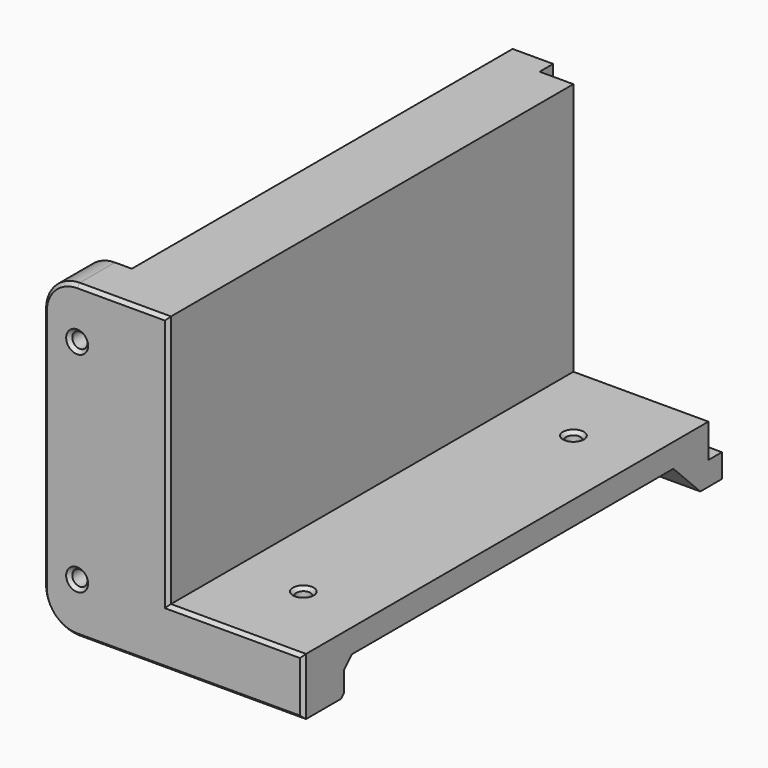
from build123d import *

# Parameters (mm, degrees)
PAD_DEPTH       = 155
SKETCH001_W     = 15
SKETCH001_H     = 92
SKETCH001_R     = 2.25
PAD001_DEPTH    = 15
POCKET_DEPTH    = 132
FILLET_R        = 10
CHAMFER_SIZE    = 9.99999
FILLET001_R     = 19.9
SKETCH004_W     = 50
SKETCH004_H     = 85
POCKET001_DEPTH = 5
CHAMFER001_SIZE = 3
SKETCH005_R     = 2.1
POCKET002_DEPTH = 92.001
CHAMFER002_SIZE = 1
CHAMFER003_SIZE = 1
CHAMFER004_SIZE = 1


with BuildPart() as part:
    # Sketch → Pad (new body)
    with BuildSketch(Plane.XZ):
        Polygon((40, 0), (40, 17), (0, 17), (0, 92), (-22, 92), (-22, 0), align=None)
    extrude(amount=-PAD_DEPTH)

    # Sketch001 → Pad001 (join)
    with BuildSketch(Plane.XZ):
        with Locations((-29.5, 46)):
            Rectangle(SKETCH001_W, SKETCH001_H)
        with Locations((-27, 77)):
            Circle(SKETCH001_R, mode=Mode.SUBTRACT)
        with Locations((-27, 15)):
            Circle(SKETCH001_R, mode=Mode.SUBTRACT)
    extrude(amount=-PAD001_DEPTH)

    # Sketch002 (on Face5 of Pad001) → Pocket (cut)
    with BuildSketch(Plane(origin=(0, 147, 0), x_dir=(-1, 0, 0), z_dir=(0, 1, 0))):
        Polygon((-40, 0), (-40, 10), (12, 10), (12, 84), (22, 84), (22, 0), align=None)
    extrude(amount=-POCKET_DEPTH, mode=Mode.SUBTRACT)

    # Fillet
    fillet_edges = [part.edges().sort_by_distance(p)[0] for p in [
        (-37, 7.5, 0),
        (-37, 7.5, 92),
        (-12, 81, 10),
    ]]
    fillet(fillet_edges, radius=FILLET_R)

    # Chamfer
    chamfer_edges = [part.edges().sort_by_distance(p)[0] for p in [
        (-12, 81, 84),
        (-12, 147, 52),
    ]]
    chamfer(chamfer_edges, length=CHAMFER_SIZE)

    # Fillet001
    fillet001_edges = [part.edges().sort_by_distance(p)[0] for p in [
        (-22, 151, 0),
    ]]
    fillet(fillet001_edges, radius=FILLET001_R)

    # Sketch004 (on Face5 of Fillet001) → Pocket001 (cut)
    with BuildSketch(Plane(origin=(0, 155, 0), x_dir=(-1, 0, 0), z_dir=(0, 1, 0))):
        with Locations((-15, 49.5)):
            Rectangle(SKETCH004_W, SKETCH004_H)
    extrude(amount=-POCKET001_DEPTH, mode=Mode.SUBTRACT)

    # Chamfer001
    chamfer001_edges = [part.edges().sort_by_distance(p)[0] for p in [
        (19, 15, 10),
    ]]
    chamfer(chamfer001_edges, length=CHAMFER001_SIZE)

    # Sketch005 → Pocket002 (cut, through all)
    with BuildSketch(Plane.XY):
        with Locations((20, 25)):
            Circle(SKETCH005_R)
        with Locations((20, 125)):
            Circle(SKETCH005_R)
    extrude(amount=POCKET002_DEPTH, mode=Mode.SUBTRACT)

    # Chamfer002
    chamfer002_edges = [part.edges().sort_by_distance(p)[0] for p in [
        (17.9, 25, 17),
        (17.9, 125, 17),
        (17.9, 125, 10),
        (17.9, 25, 10),
    ]]
    chamfer(chamfer002_edges, length=CHAMFER002_SIZE)

    # Chamfer003
    chamfer003_edges = [part.edges().sort_by_distance(p)[0] for p in [
        (-13.5, 0, 92),
        (-34.071068, 0, 89.071068),
        (0, 0, 54.5),
        (-37, 0, 46),
        (20, 0, 17),
        (-34.071068, 0, 2.928932),
        (40, 0, 8.5),
        (6.5, 0, 0),
        (-29.25, 0, 15),
        (-29.25, 0, 77),
    ]]
    chamfer(chamfer003_edges, length=CHAMFER003_SIZE)

    # Chamfer004
    chamfer004_edges = [part.edges().sort_by_distance(p)[0] for p in [
        (6.5, 15, 0),
        (-29.25, 15, 77),
        (-29.25, 15, 15),
    ]]
    chamfer(chamfer004_edges, length=CHAMFER004_SIZE)


solid = part.part
